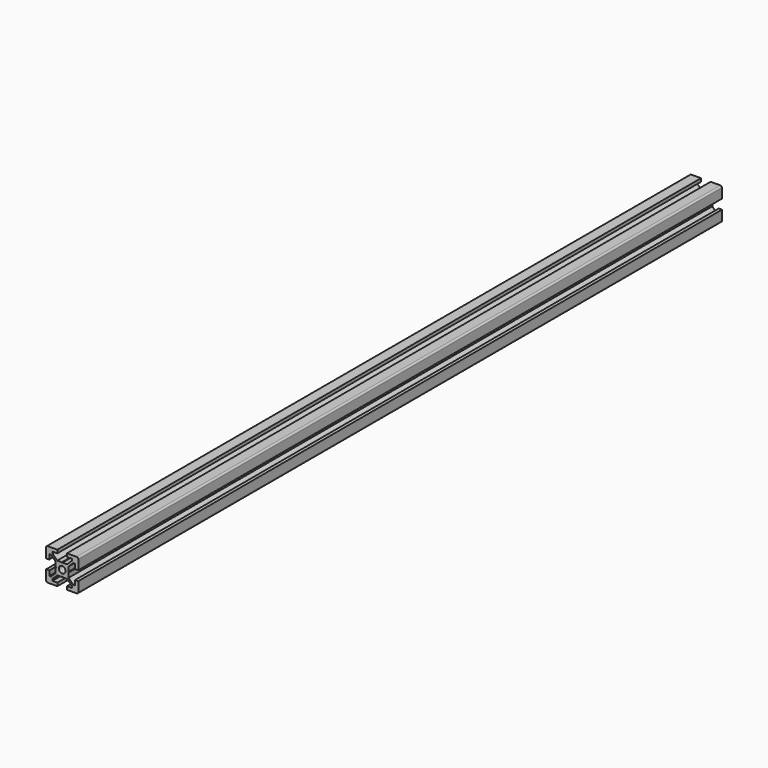
from build123d import *

# Parameters (mm, degrees)
SKETCH_R  = 2.1
PAD_DEPTH = 250
FILLET_R  = 1


with BuildPart() as part:
    # Sketch → Pad (new body, symmetric)
    with BuildSketch(Plane.XZ):
        Polygon((-10, 10), (-3, 10), (-3, 8), (-6, 8), (-6, 6.883883), (-3.116117, 4), (-0.25, 4), (0, 3.75), (0.25, 4), (3.116117, 4), (6, 6.883883), (6, 8), (3, 8), (3, 10), (10, 10), (10, 3), (8, 3), (8, 6), (6.883883, 6), (4, 3.116117), (4, 0.25), (3.75, 0), (4, -0.25), (4, -3.116117), (6.883883, -6), (8, -6), (8, -3), (10, -3), (10, -10), (3, -10), (3, -8), (6, -8), (6, -6.883883), (3.116117, -4), (0.25, -4), (0, -3.75), (-0.25, -4), (-3.116117, -4), (-6, -6.883883), (-6, -8), (-3, -8), (-3, -10), (-10, -10), (-10, -3), (-8, -3), (-8, -6), (-6.883883, -6), (-4, -3.116117), (-4, -0.25), (-3.75, 0), (-4, 0.25), (-4, 3.116117), (-6.883883, 6), (-8, 6), (-8, 3), (-10, 3), align=None)
        Circle(SKETCH_R, mode=Mode.SUBTRACT)
    extrude(amount=PAD_DEPTH, both=True)

    # Fillet
    fillet_edges = [part.edges().sort_by_distance(p)[0] for p in [
        (-10, 0, 10),
        (-10, 0, -10),
        (10, 0, 10),
        (10, 0, -10),
    ]]
    fillet(fillet_edges, radius=FILLET_R)


solid = part.part
